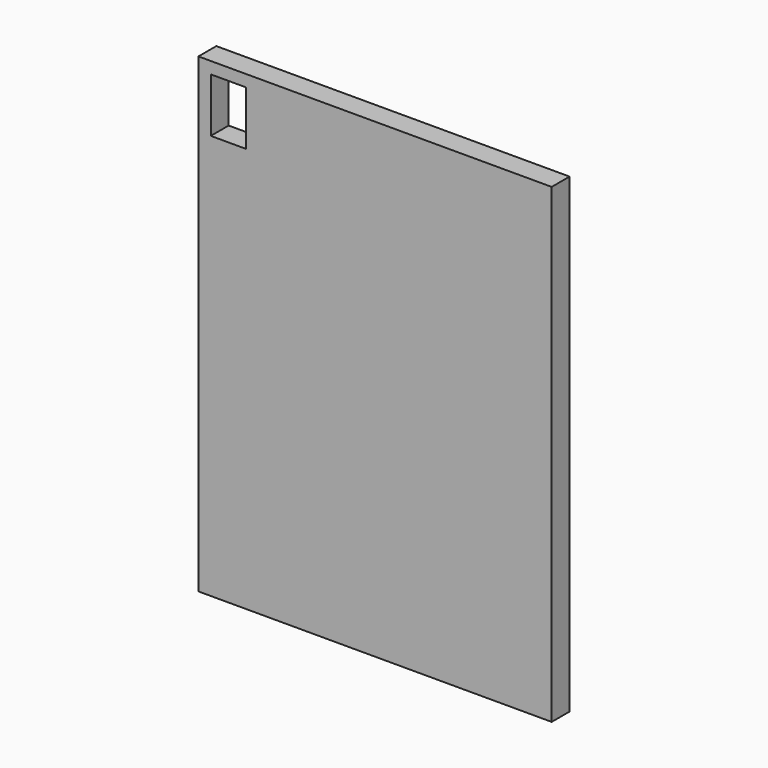
from build123d import *

# Parameters (mm, degrees)
F0_W     = 300
F0_H     = 400
F1_DEPTH = 19
F2_W     = 278
F2_H     = 46
F3_DEPTH = 10
F4_W     = 30
F4_H     = 46
F5_DEPTH = 10
F6_W     = 260
F6_H     = 312
F7_DEPTH = 10


with BuildPart() as f1:
    # F0 (on Front) → F1 (new body)
    with BuildSketch(Plane.XZ):
        with Locations((-8.346558, 189.359199)):
            Rectangle(F0_W, F0_H)
    extrude(amount=F1_DEPTH)

    # F2 (on face) → F3 (cut)
    with BuildSketch(Plane(origin=(0, 0, 0), x_dir=(-1, 0, 0), z_dir=(0, 1, 0))):
        with Locations((8.846558, 356.359199)):
            Rectangle(F2_W, F2_H)
    extrude(amount=-F3_DEPTH, mode=Mode.SUBTRACT)

    # F4 (on face) → F5 (cut)
    with BuildSketch(Plane(origin=(0, -10, 0), x_dir=(-1, 0, 0), z_dir=(0, 1, 0))):
        with Locations((132.846558, 356.359199)):
            Rectangle(F4_W, F4_H)
    extrude(amount=-F5_DEPTH, mode=Mode.SUBTRACT)

    # F6 (on face) → F7 (cut)
    with BuildSketch(Plane(origin=(0, 0, 0), x_dir=(-1, 0, 0), z_dir=(0, 1, 0))):
        with Locations((8.346558, 167.359199)):
            Rectangle(F6_W, F6_H)
    extrude(amount=-F7_DEPTH, mode=Mode.SUBTRACT)


solid = f1.part
